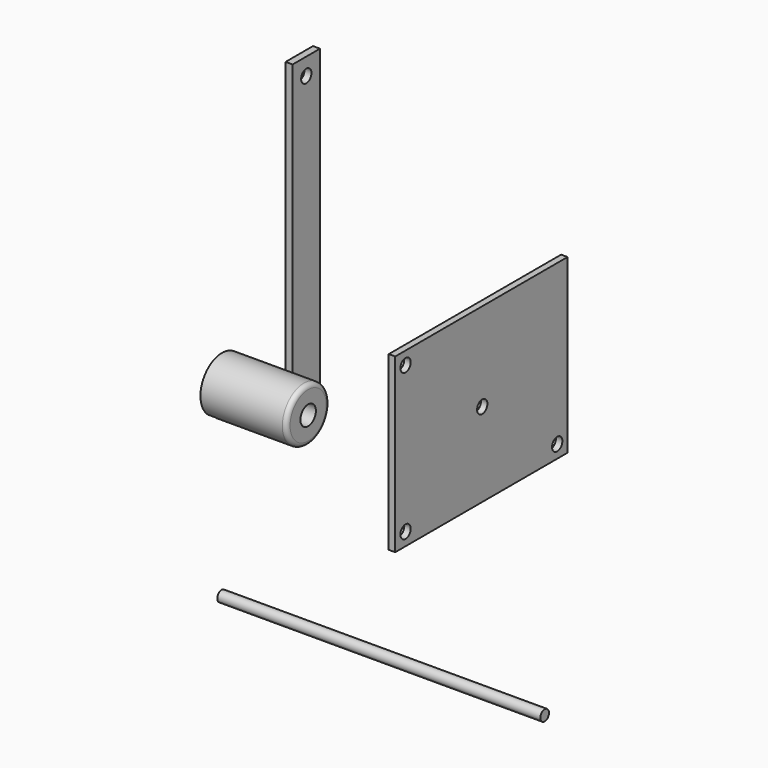
from build123d import *

# Parameters (mm, degrees)
F2_W      = 15.88
F2_H      = 150
F2_R      = 3
F3_DEPTH  = 3.25
F4_R      = 12.5
F5_DEPTH  = 40
F6_R      = 2
F7_DEPTH  = 40
F8_R      = 4.5
F8_R_2    = 2
F9_DEPTH  = 20
F10_R     = 2
F11_R     = 2
F12_DEPTH = 3.25
F13_R     = 2.5
F14_DEPTH = 150
F15_W     = 100
F15_H     = 80
F15_R     = 3
F16_DEPTH = 3


with BuildPart() as f3:
    # F2 (on Right) → F3 (new body)
    with BuildSketch(Plane.YZ):
        with Locations((-7.3661215442, 75)):
            Rectangle(F2_W, F2_H)
        with Locations((-7.3661215442, 7.94)):
            Circle(F2_R, mode=Mode.SUBTRACT)
        with Locations((-7.3661215442, 142.06)):
            Circle(F2_R, mode=Mode.SUBTRACT)
    extrude(amount=F3_DEPTH)


with BuildPart() as f5:
    # F4 (on Right) → F5 (new body)
    with BuildSketch(Plane.YZ):
        with Locations((-52.2160716355, 33.5931144655)):
            Circle(F4_R)
    extrude(amount=F5_DEPTH)

    # F6 (on face) → F7 (cut, through all)
    with BuildSketch(Plane(origin=(0, 0, 0), x_dir=(0, -1, 0), z_dir=(-1, 0, 0))):
        with Locations((52.2160716355, 33.5931144655)):
            Circle(F6_R)
    extrude(amount=-F7_DEPTH, mode=Mode.SUBTRACT)

    # F8 (on face) → F9 (cut)
    with BuildSketch(Plane.YZ.offset(40)):
        with Locations((-52.2160716355, 33.5931144655)):
            Circle(F8_R)
        with Locations((-52.2160716355, 33.5931144655)):
            Circle(F8_R_2, mode=Mode.SUBTRACT)
    extrude(amount=-F9_DEPTH, mode=Mode.SUBTRACT)

    # F10
    f10_edges = [f5.edges().sort_by_distance(p)[0] for p in [
        (40, -64.716072, 33.593114),
    ]]
    fillet(f10_edges, radius=F10_R)

    # F11 (on face) → F12 (cut)
    with BuildSketch(Plane(origin=(0, 0, 0), x_dir=(0, -1, 0), z_dir=(-1, 0, 0))):
        with BuildLine():
            Line((43.9660716355, 41.8431144655), (43.9660716355, 24.20229448))
            ThreePointArc((43.9660716355, 24.20229448), (52.2160716355, 21.0931144655), (60.4660716355, 24.20229448))
            Line((60.4660716355, 24.20229448), (60.4660716355, 41.8431144655))
            Line((60.4660716355, 41.8431144655), (43.9660716355, 41.8431144655))
        make_face()
        with Locations((52.2160716355, 33.5931144655)):
            Circle(F11_R, mode=Mode.SUBTRACT)
    extrude(amount=-F12_DEPTH, mode=Mode.SUBTRACT)


with BuildPart() as f14:
    # F13 (on Right) → F14 (new body)
    with BuildSketch(Plane.YZ):
        with Locations((-52.46412009, -53.1461387873)):
            Circle(F13_R)
    extrude(amount=F14_DEPTH)


with BuildPart() as f16:
    # F15 (on Right) → F16 (new body)
    with BuildSketch(Plane.YZ):
        with Locations((94.5494233072, -33.7444189344)):
            Rectangle(F15_W, F15_H)
        with Locations((50.5494233072, -67.7444189344)):
            Circle(F15_R, mode=Mode.SUBTRACT)
        with Locations((138.5494233072, -67.7444189344)):
            Circle(F15_R, mode=Mode.SUBTRACT)
        with Locations((95.0485393405, -34.8118245602)):
            Circle(F15_R, mode=Mode.SUBTRACT)
        with Locations((50.5494233072, 0.2555810656)):
            Circle(F15_R, mode=Mode.SUBTRACT)
    extrude(amount=F16_DEPTH)


solid = Compound([f3.part, f5.part, f14.part, f16.part])
